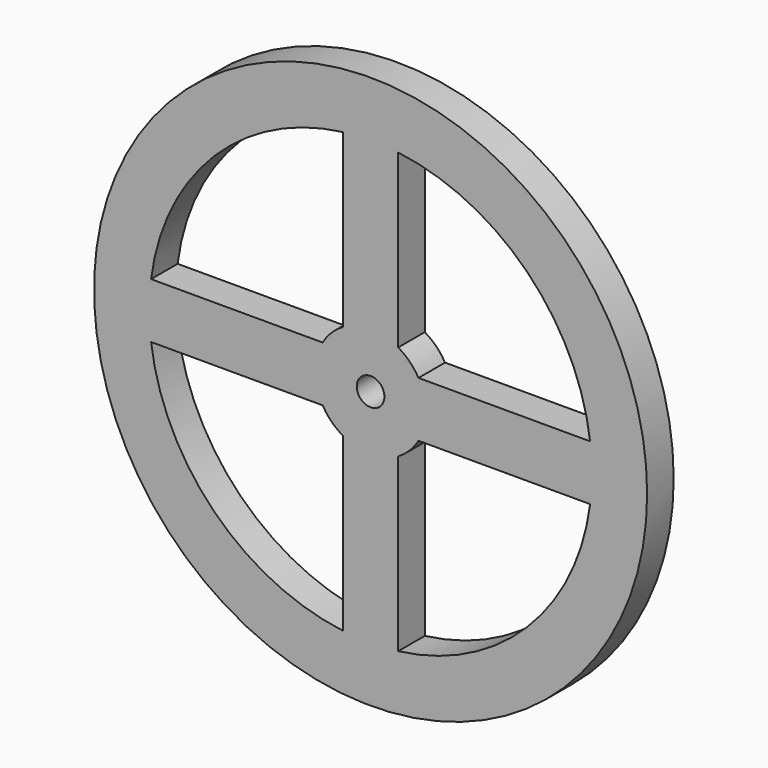
from build123d import *

# Parameters (mm, degrees)
F0_R     = 50
F0_R_2   = 2.5
F1_DEPTH = 3


with BuildPart() as f1:
    # F0 (on Front) → F1 (new body, symmetric)
    with BuildSketch(Plane.XZ):
        Circle(F0_R)
        with BuildLine():
            ThreePointArc((-5, -39.68627), (-28.284271, -28.284271), (-39.68627, -5))
            Line((-39.68627, -5), (-8.660254, -5))
            ThreePointArc((-8.660254, -5), (-7.071068, -7.071068), (-5, -8.660254))
            Line((-5, -8.660254), (-5, -39.68627))
        make_face(mode=Mode.SUBTRACT)
        with BuildLine():
            Line((5, -39.68627), (5, -8.660254))
            ThreePointArc((5, -8.660254), (7.071068, -7.071068), (8.660254, -5))
            Line((8.660254, -5), (39.68627, -5))
            ThreePointArc((39.68627, -5), (28.284271, -28.284271), (5, -39.68627))
        make_face(mode=Mode.SUBTRACT)
        with BuildLine():
            ThreePointArc((-39.68627, 5), (-28.284271, 28.284271), (-5, 39.68627))
            Line((-5, 39.68627), (-5, 8.660254))
            ThreePointArc((-5, 8.660254), (-7.071068, 7.071068), (-8.660254, 5))
            Line((-8.660254, 5), (-39.68627, 5))
        make_face(mode=Mode.SUBTRACT)
        Circle(F0_R_2, mode=Mode.SUBTRACT)
        with BuildLine():
            ThreePointArc((5, 39.68627), (28.284271, 28.284271), (39.68627, 5))
            Line((39.68627, 5), (8.660254, 5))
            ThreePointArc((8.660254, 5), (7.071068, 7.071068), (5, 8.660254))
            Line((5, 8.660254), (5, 39.68627))
        make_face(mode=Mode.SUBTRACT)
    extrude(amount=F1_DEPTH, both=True)


solid = f1.part
